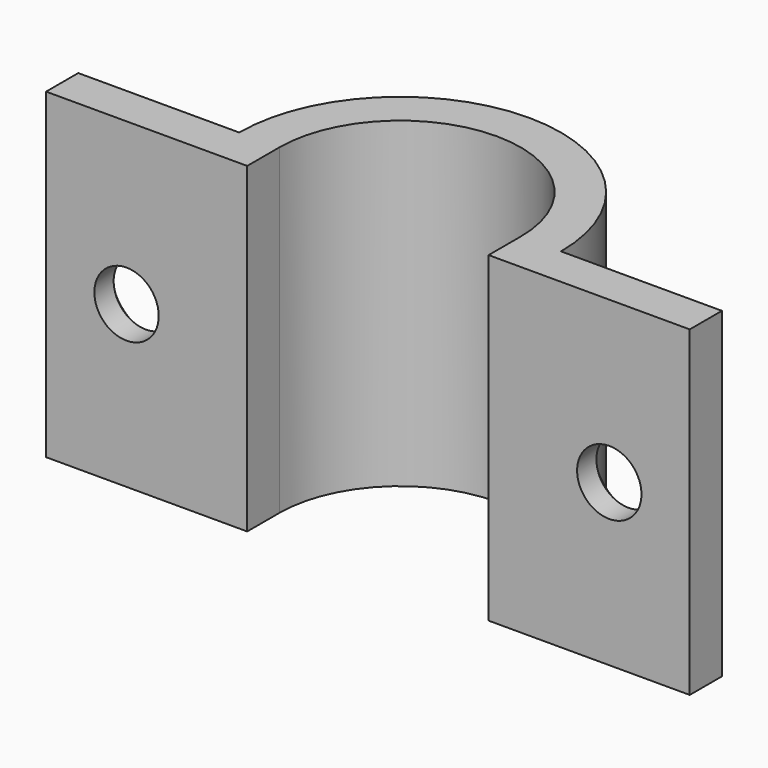
from build123d import *

# Parameters (mm, degrees)
PAD_DEPTH    = 20
SKETCH001_R  = 4
POCKET_DEPTH = 25.001
CHAMFER_SIZE = 2


with BuildPart() as part:
    # Sketch → Pad (new body, symmetric)
    with BuildSketch(Plane.XY):
        with BuildLine():
            Line((-40, 0), (-20, 0))
            ThreePointArc((20, 0), (0, 20), (-20, 0))
            Line((20, 0), (40, 0))
            Line((40, -5), (40, 0))
            Line((15, -5), (40, -5))
            Line((15, 0), (15, -5))
            ThreePointArc((15, 0), (0, 15), (-15, 0))
            Line((-15, 0), (-15, -5))
            Line((-15, -5), (-40, -5))
            Line((-40, -5), (-40, 0))
        make_face()
    extrude(amount=PAD_DEPTH, both=True)

    # Sketch001 → Pocket (cut, through all)
    with BuildSketch(Plane.XZ.offset(5)):
        with Locations((-30, 0)):
            Circle(SKETCH001_R)
        with Locations((30, 0)):
            Circle(SKETCH001_R)
    extrude(amount=-POCKET_DEPTH, mode=Mode.SUBTRACT)

    # Chamfer
    chamfer_edges = [part.edges().sort_by_distance(p)[0] for p in [
        (26, 0, 0),
        (-34, 0, 0),
    ]]
    chamfer(chamfer_edges, length=CHAMFER_SIZE)


solid = part.part
